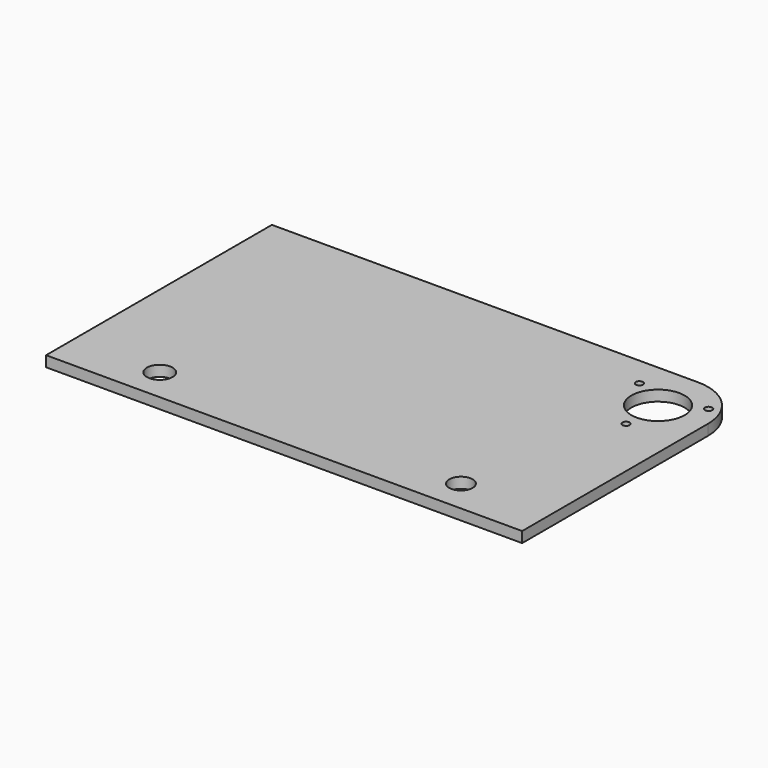
from build123d import *

# Parameters (mm, degrees)
F0_W     = 226.934573
F0_H     = 134.546198
F0_R     = 6.113481
F0_R_2   = 5.587505
F0_R_3   = 1.7272
F0_R_4   = 12.7
F1_DEPTH = 5.08
F2_R     = 23.8125


with BuildPart() as f1:
    # F0 (on Top) → F1 (new body)
    with BuildSketch(Plane.XY):
        with Locations((-113.467287, 67.273099)):
            Rectangle(F0_W, F0_H)
        with Locations((-185.257807, 15.635768)):
            Circle(F0_R, mode=Mode.SUBTRACT)
        with Locations((-41.676765, 15.635768)):
            Circle(F0_R_2, mode=Mode.SUBTRACT)
        with Locations((-23.8125, 91.683698)):
            Circle(F0_R_3, mode=Mode.SUBTRACT)
        with Locations((-23.8125, 110.733698)):
            Circle(F0_R_4, mode=Mode.SUBTRACT)
        with Locations((-40.310284, 120.258698)):
            Circle(F0_R_3, mode=Mode.SUBTRACT)
        with Locations((-7.314716, 120.258698)):
            Circle(F0_R_3, mode=Mode.SUBTRACT)
    extrude(amount=F1_DEPTH)

    # F2
    f2_edges = [f1.edges().sort_by_distance(p)[0] for p in [
        (0, 134.546198, 2.54),
    ]]
    fillet(f2_edges, radius=F2_R)


solid = f1.part
